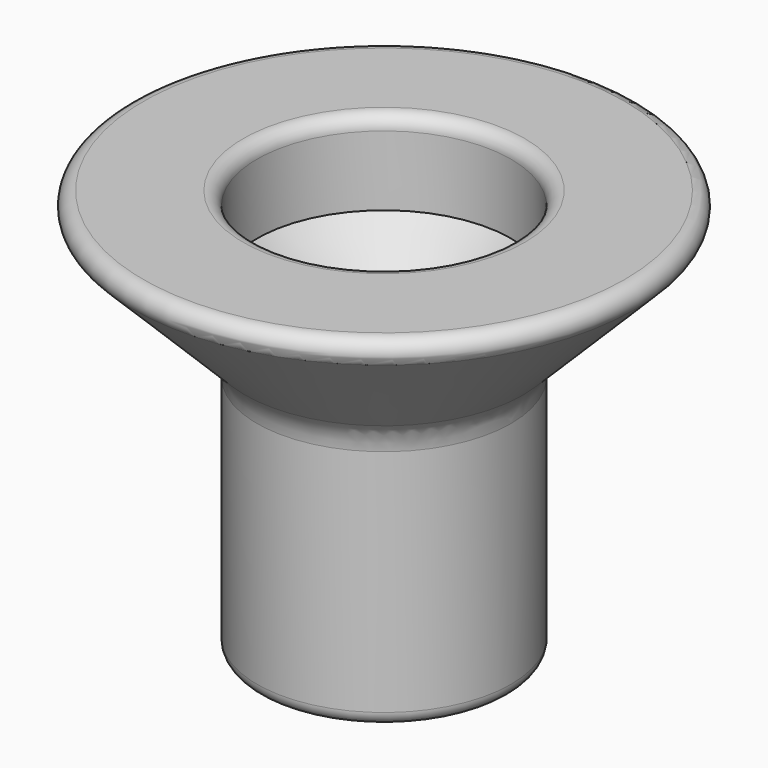
from build123d import *

# Parameters (mm, degrees)
FILLET_R    = 6
FILLET002_R = 2


with BuildPart() as part:
    # Sketch003 → Revolution002 (revolve)
    with BuildSketch(Plane.XZ):
        Polygon((12.75, 30), (12.75, 68), (12.75, 71.45), (18.55, 77.25), (18.55, 89.45), (40, 89.45), (18.55, 68), (18.55, 30), align=None)
    revolve(axis=Axis((0, 0, 0), (0, 0, 1)))

    # Fillet
    fillet_edges = [part.edges().sort_by_distance(p)[0] for p in [
        (-18.55, 0, 68),
    ]]
    fillet(fillet_edges, radius=FILLET_R)

    # Fillet002
    fillet002_edges = [part.edges().sort_by_distance(p)[0] for p in [
        (-18.55, 0, 89.45),
        (-40, 0, 89.45),
        (-12.75, 0, 30),
        (-18.55, 0, 30),
    ]]
    fillet(fillet002_edges, radius=FILLET002_R)


solid = part.part
